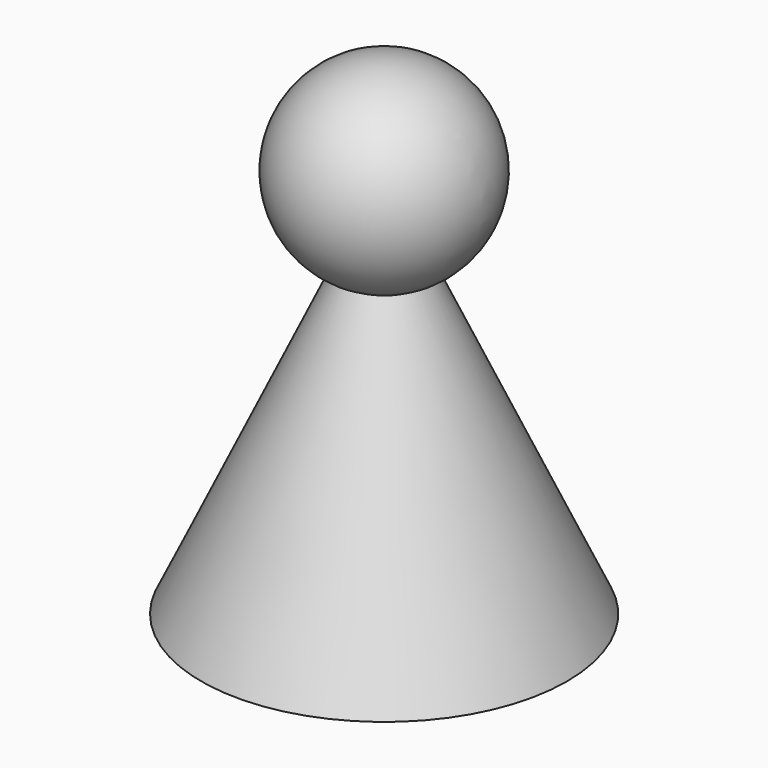
from build123d import *


with BuildPart() as part:
    # Sketch → Revolution (revolve)
    with BuildSketch(Plane.XZ):
        with BuildLine():
            ThreePointArc((3.44501, 24.779757), (7.802626, 33.766077), (0, 40))
            Line((0, 40), (0, 0))
            Line((0, 0), (15, 0))
            Line((15, 0), (3.44501, 24.779757))
        make_face()
    revolve(axis=Axis((0, 0, 0), (0, 0, 1)))


solid = part.part
